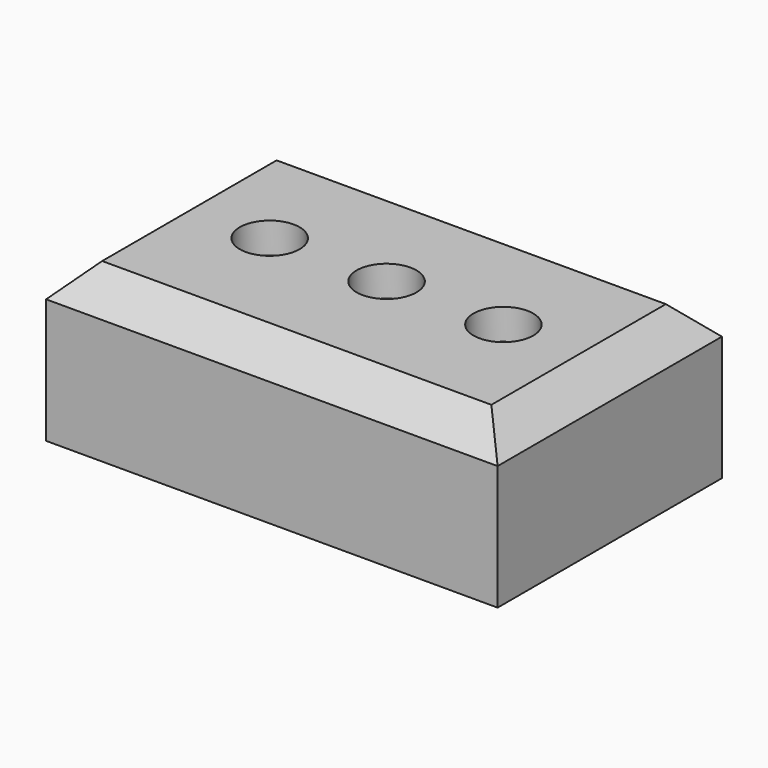
from build123d import *

# Parameters (mm, degrees)
F0_W           = 73.618516326
F0_H           = 45.713365078
F1_DEPTH       = 25.4
F3_D           = 5.5
F3_CBORE_D     = 9.75
F3_CBORE_DEPTH = 5
F4_SIZE        = 5.08


with BuildPart() as f1:
    # F0 (on Top) → F1 (new body)
    with BuildSketch(Plane.XY):
        Rectangle(F0_W, F0_H)
    extrude(amount=F1_DEPTH)

    # F3 (through all)
    with Locations(Plane.XY.offset(25.4)):
        with Locations((0.0451991563, 0.4629576465), (-19.0048008437, 0.4629576465), (19.0951991563, 0.4629576465)):
            CounterBoreHole(F3_D / 2, F3_CBORE_D / 2, F3_CBORE_DEPTH)

    # F4
    f4_edges = [f1.edges().sort_by_distance(p)[0] for p in [
        (36.809258, 0, 25.4),
        (0, 22.856683, 25.4),
        (-36.809258, 0, 25.4),
        (0, -22.856683, 25.4),
    ]]
    chamfer(f4_edges, length=F4_SIZE)


solid = f1.part
